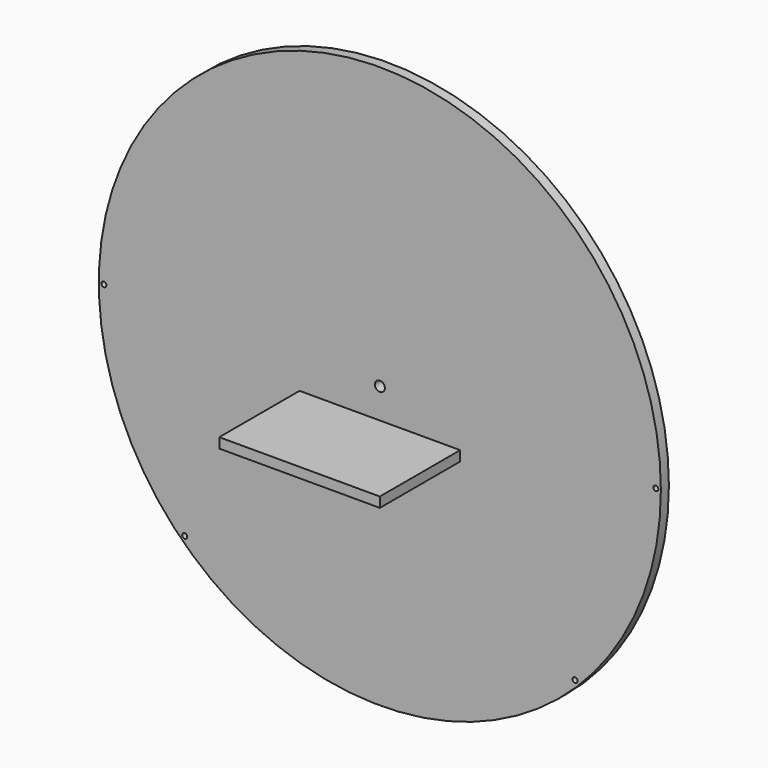
from build123d import *

# Parameters (mm, degrees)
F0_R     = 177.8
F0_R_2   = 1.5875
F0_W     = 101.6
F0_H     = 6.35
F0_R_3   = 3.175
F1_DEPTH = 6.35
F2_DEPTH = 69.85


with BuildPart() as f1:
    # F0 (on Front) → F1 (new body)
    with BuildSketch(Plane.XZ):
        Circle(F0_R)
        with Locations((-123.478522, -123.478522)):
            Circle(F0_R_2, mode=Mode.SUBTRACT)
        with Locations((123.478522, -123.478522)):
            Circle(F0_R_2, mode=Mode.SUBTRACT)
        with Locations((0, -22.225)):
            Rectangle(F0_W, F0_H, mode=Mode.SUBTRACT)
        with Locations((-174.625, 0)):
            Circle(F0_R_2, mode=Mode.SUBTRACT)
        Circle(F0_R_3, mode=Mode.SUBTRACT)
        with Locations((174.625, 0)):
            Circle(F0_R_2, mode=Mode.SUBTRACT)
    extrude(amount=F1_DEPTH)

    # F0 (on Front) → F2 (join)
    with BuildSketch(Plane.XZ):
        with Locations((0, -22.225)):
            Rectangle(F0_W, F0_H)
    extrude(amount=F2_DEPTH)


solid = f1.part
